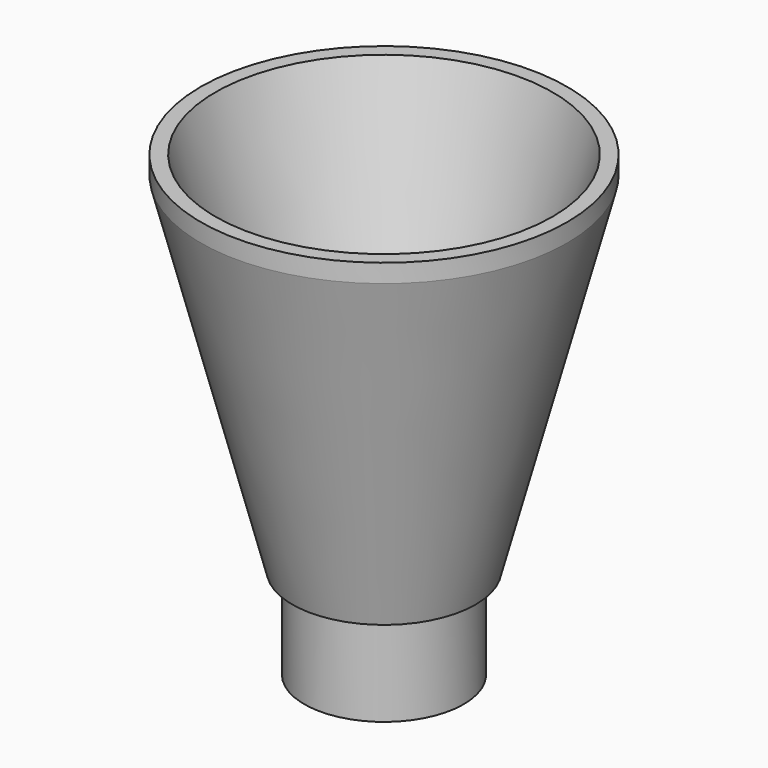
from build123d import *

# Parameters (mm, degrees)
F0_R     = 4.35
F0_R_2   = 3
F1_DEPTH = 5
F2_R     = 10
F2_R_2   = 3
F3_DEPTH = 20
F4_SIZE2 = 6.2
F4_SIZE  = 20
F5_SIZE2 = 5
F5_SIZE  = 19


with BuildPart() as f1:
    # F0 (on Top) → F1 (new body)
    with BuildSketch(Plane.XY):
        Circle(F0_R)
        Circle(F0_R_2, mode=Mode.SUBTRACT)
    extrude(amount=F1_DEPTH)

    # F2 (on face) → F3 (join)
    with BuildSketch(Plane.XY.offset(5)):
        Circle(F2_R)
        Circle(F2_R_2, mode=Mode.SUBTRACT)
    extrude(amount=F3_DEPTH)

    # F4
    f4_edges = [f1.edges().sort_by_distance(p)[0] for p in [
        (-3, 0, 25),
    ]]
    f4_side = f1.faces().sort_by_distance((-3, 0, 12.5))[0]
    chamfer(f4_edges, length=F4_SIZE, length2=F4_SIZE2, reference=f4_side)

    # F5
    f5_edges = [f1.edges().sort_by_distance(p)[0] for p in [
        (-10, 0, 5),
    ]]
    f5_side = f1.faces().sort_by_distance((-10, 0, 15))[0]
    chamfer(f5_edges, length=F5_SIZE, length2=F5_SIZE2, reference=f5_side)


solid = f1.part
